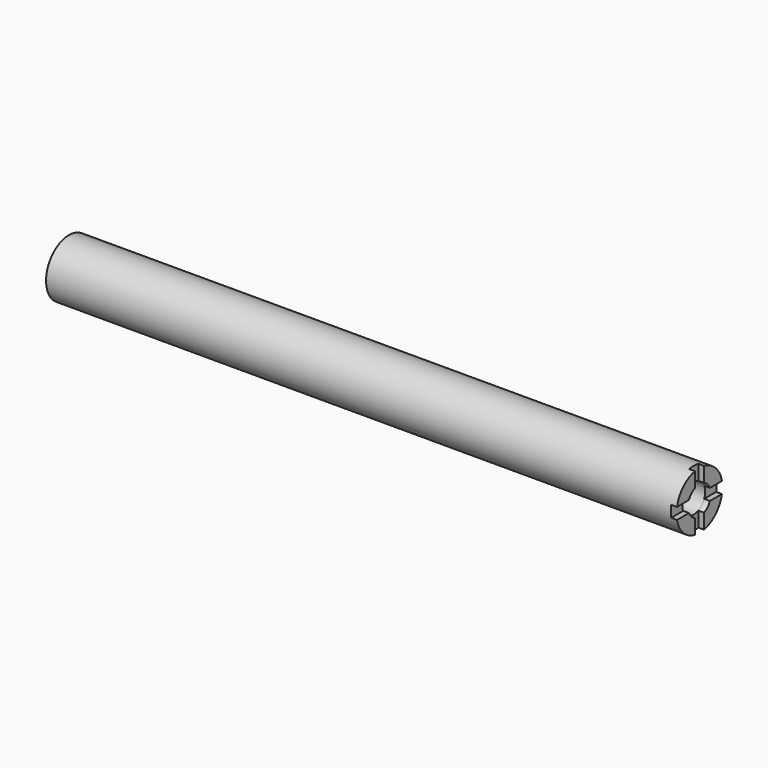
from build123d import *

# Parameters (mm, degrees)
F0_R     = 12.7
F1_DEPTH = 279.4
F2_R     = 6.35
F3_DEPTH = 25.4
F5_DEPTH = 2.54


with BuildPart() as f1:
    # F0 (on Right) → F1 (new body)
    with BuildSketch(Plane.YZ):
        Circle(F0_R)
    extrude(amount=-F1_DEPTH)

    # F2 (on face) → F3 (cut)
    with BuildSketch(Plane.YZ):
        Circle(F2_R)
    extrude(amount=-F3_DEPTH, mode=Mode.SUBTRACT)

    # F4 (on Right) → F5 (cut)
    with BuildSketch(Plane.YZ):
        with BuildLine():
            ThreePointArc((2.54, -5.819871), (0, -6.35), (-2.54, -5.819871))
            Line((-2.54, -5.819871), (-2.54, -12.443408))
            ThreePointArc((-2.54, -12.443408), (0, -12.7), (2.54, -12.443408))
            Line((2.54, -12.443408), (2.54, -5.819871))
        make_face()
        with BuildLine():
            ThreePointArc((-5.819871, -2.54), (-6.35, 0), (-5.819871, 2.54))
            Line((-5.819871, 2.54), (-12.443408, 2.54))
            ThreePointArc((-12.443408, 2.54), (-12.7, 0), (-12.443408, -2.54))
            Line((-12.443408, -2.54), (-5.819871, -2.54))
        make_face()
        with BuildLine():
            ThreePointArc((2.54, 12.443408), (0, 12.7), (-2.54, 12.443408))
            Line((-2.54, 12.443408), (-2.54, 5.819871))
            ThreePointArc((-2.54, 5.819871), (-4.490128, 4.490128), (-5.819871, 2.54))
            ThreePointArc((-5.819871, 2.54), (-6.35, 0), (-5.819871, -2.54))
            ThreePointArc((-5.819871, -2.54), (-4.490128, -4.490128), (-2.54, -5.819871))
            ThreePointArc((-2.54, -5.819871), (0, -6.35), (2.54, -5.819871))
            ThreePointArc((2.54, -5.819871), (4.490128, -4.490128), (5.819871, -2.54))
            ThreePointArc((5.819871, -2.54), (6.35, 0), (5.819871, 2.54))
            ThreePointArc((5.819871, 2.54), (4.490128, 4.490128), (2.54, 5.819871))
            Line((2.54, 5.819871), (2.54, 12.443408))
        make_face()
        with BuildLine():
            Line((12.443408, 2.54), (5.819871, 2.54))
            ThreePointArc((5.819871, 2.54), (6.35, 0), (5.819871, -2.54))
            Line((5.819871, -2.54), (12.443408, -2.54))
            ThreePointArc((12.443408, -2.54), (12.7, 0), (12.443408, 2.54))
        make_face()
    extrude(amount=-F5_DEPTH, mode=Mode.SUBTRACT)


solid = f1.part
